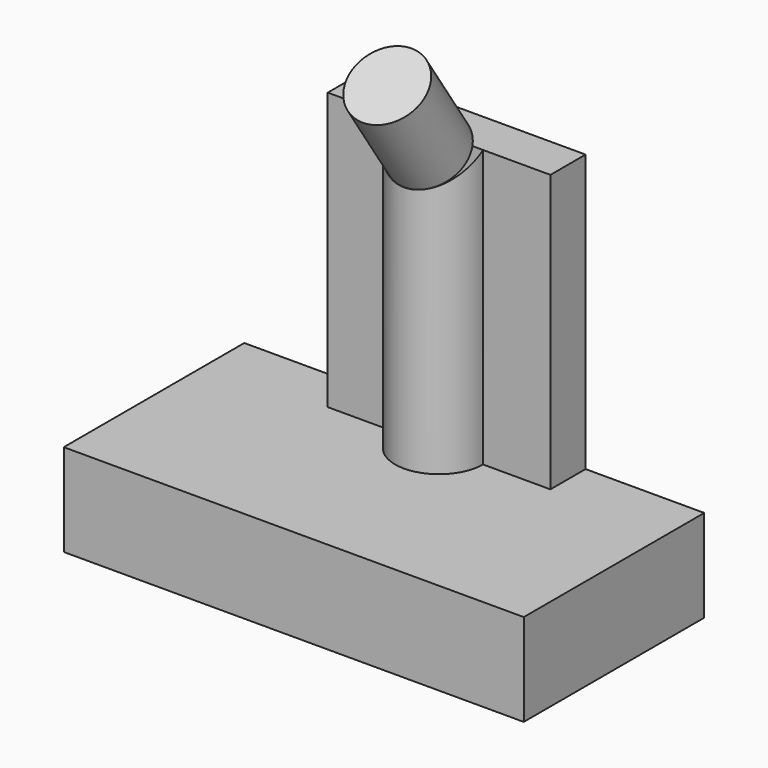
from build123d import *

# Parameters (mm, degrees)
F1_DEPTH  = 7.7
F0_W      = 7.6
F0_H      = 9.45
F2_DEPTH  = 1.5
F3_R      = 1.5
F4_DEPTH  = 9.45
F5_W      = 13
F5_H      = 5
F5_R      = 1.5
F5_R_2    = 0.75
F6_DEPTH  = 1
F8_DEPTH  = 25
F9_R      = 1.25
F10_DEPTH = 3.2


with BuildPart() as f1:
    # F0 (on Front) → F1 (new body)
    with BuildSketch(Plane.XZ):
        Polygon((0, 3.15), (0, 0), (15.7, 0), (15.7, 3.15), (11.65, 3.15), (4.05, 3.15), align=None)
    extrude(amount=F1_DEPTH)

    # F0 (on Front) → F2 (join)
    with BuildSketch(Plane.XZ):
        with Locations((7.85, 7.875)):
            Rectangle(F0_W, F0_H)
    extrude(amount=F2_DEPTH)

    # F3 (on face) → F4 (join)
    with BuildSketch(Plane.XY.offset(3.15)):
        with Locations((7.85, -1.5)):
            Circle(F3_R)
    extrude(amount=F4_DEPTH)

    # F5 (on face) → F6 (cut)
    with BuildSketch(Plane(origin=(0, 0, 0), x_dir=(1, 0, 0), z_dir=(0, 0, -1))):
        with Locations((7.85, 3.85)):
            Rectangle(F5_W, F5_H)
        with Locations((7.85, 3.85)):
            Circle(F5_R, mode=Mode.SUBTRACT)
        with Locations((7.85, 3.85)):
            Circle(F5_R_2)
    extrude(amount=-F6_DEPTH, mode=Mode.SUBTRACT)

    # F7 (on face) → F8 (cut)
    with BuildSketch(Plane.YZ.offset(11.65)):
        Polygon((-3, 11.6), (-1.5, 12.6), (-3, 12.6), align=None)
    extrude(amount=-F8_DEPTH, mode=Mode.SUBTRACT)

    # F9 (on face) → F10 (join)
    with BuildSketch(Plane(origin=(0, -6.276923, 9.415385), x_dir=(1, 0, 0), z_dir=(0, -0.5547, 0.83205))):
        with Locations((7.864574, 5.193453)):
            Circle(F9_R)
    extrude(amount=F10_DEPTH)


solid = f1.part
